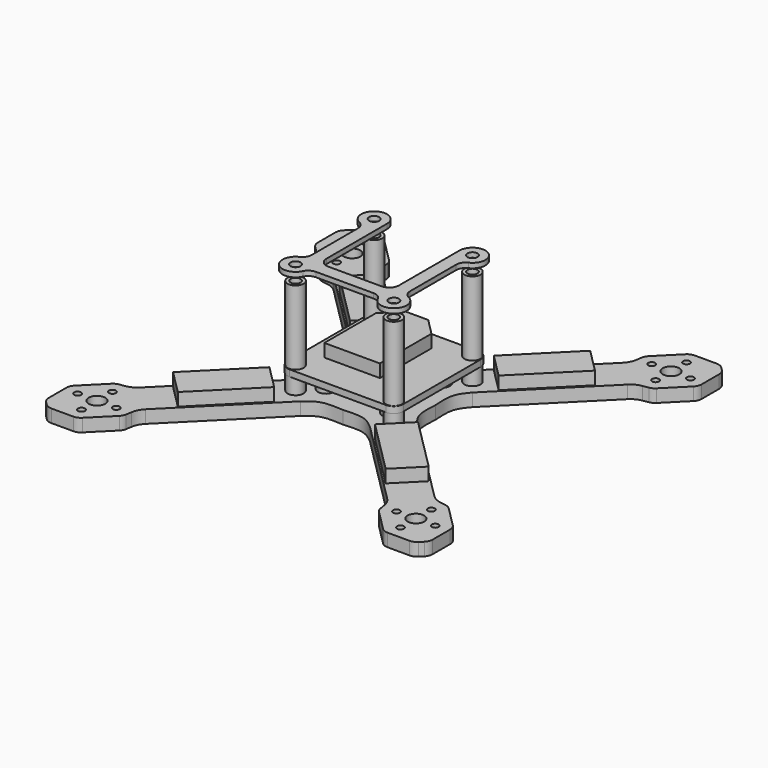
from build123d import *

# Parameters (mm, degrees)
F0_R      = 1.075
F0_R_2    = 2.575
F0_R_3    = 1.575
F2_DEPTH  = 4
F5_DEPTH  = 4
F7_R      = 1.575
F8_DEPTH  = 2
F9_R      = 1.575
F10_DEPTH = 2
F12_DEPTH = 4
F13_R     = 2.5
F13_R_2   = 1.55
F14_DEPTH = 30
F15_R     = 2.5
F15_R_2   = 1.55
F16_DEPTH = 5
F18_R     = 1.575
F19_DEPTH = 1.5


with BuildPart() as f2:
    # F0 (on Top) → F2 (new body)
    with BuildSketch(Plane.XY):
        with BuildLine():
            add(Edge.make_bspline(
                [(0, 16), (2.3510574085, 15.9325532334), (6.8692782252, 15.3643635456), (9.9648448839, 18.2602136611), (10.7801281389, 18.9118561226)],
                knots=[0, 0, 0, 0, 0.5485663606, 1, 1, 1, 1], degree=3))
            add(Edge.make_bspline(
                [(0, 16), (-2.3510574085, 15.9325532334), (-6.8692782252, 15.3643635456), (-9.9648448839, 18.2602136611), (-10.7801281389, 18.9118561226)],
                knots=[0, 0, 0, 0, 0.5485663606, 1, 1, 1, 1], degree=3))
            Line((-10.7801281389, 18.9118561226), (-37.5000927175, 45.6318207012))
            ThreePointArc((-37.5000927175, 45.6318207012), (-38.6000832127, 47.1438402043), (-39.1812178375, 48.9210471747))
            Line((-39.1812178375, 48.9210471747), (-39.4645239676, 50.6812885711))
            ThreePointArc((-39.4645239676, 50.6812885711), (-39.7550912801, 51.5698920562), (-40.3050865276, 52.3259018078))
            Line((-40.3050865276, 52.3259018078), (-46.6690475583, 58.6898628385))
            ThreePointArc((-46.6690475583, 58.6898628385), (-47.6423176048, 59.3401810925), (-48.7903679019, 59.5685424949))
            Line((-48.7903679019, 59.5685424949), (-55.5931144107, 59.5685424949))
            ThreePointArc((-55.5931144107, 59.5685424949), (-56.7411647078, 59.3401810925), (-57.7144347543, 58.6898628385))
            Line((-57.7144347543, 58.6898628385), (-58.2021487964, 58.2021487964))
            Line((-58.2021487964, 58.2021487964), (-58.6898628385, 57.7144347543))
            ThreePointArc((-58.6898628385, 57.7144347543), (-59.3401810925, 56.7411647078), (-59.5685424949, 55.5931144107))
            Line((-59.5685424949, 55.5931144107), (-59.5685424949, 48.7903679019))
            ThreePointArc((-59.5685424949, 48.7903679019), (-59.3401810925, 47.6423176048), (-58.6898628385, 46.6690475583))
            Line((-58.6898628385, 46.6690475583), (-52.3259018078, 40.3050865276))
            ThreePointArc((-52.3259018078, 40.3050865276), (-51.5698920562, 39.7550912801), (-50.6812885711, 39.4645239676))
            Line((-50.6812885711, 39.4645239676), (-48.9210471747, 39.1812178375))
            ThreePointArc((-48.9210471747, 39.1812178375), (-47.1438402043, 38.6000832127), (-45.6318207012, 37.5000927175))
            Line((-45.6318207012, 37.5000927175), (-18.9118561226, 10.7801281389))
            add(Edge.make_bspline(
                [(-16, 0), (-15.9325532334, 2.3510574085), (-15.3643635456, 6.8692782252), (-18.2602136611, 9.9648448839), (-18.9118561226, 10.7801281389)],
                knots=[0, 0, 0, 0, 0.5485663606, 1, 1, 1, 1], degree=3))
            add(Edge.make_bspline(
                [(-16, 0), (-15.9325532334, -2.3510574085), (-15.3643635456, -6.8692782252), (-18.2602136611, -9.9648448839), (-18.9118561226, -10.7801281389)],
                knots=[0, 0, 0, 0, 0.5485663606, 1, 1, 1, 1], degree=3))
            Line((-18.9118561226, -10.7801281389), (-45.6318207012, -37.5000927175))
            ThreePointArc((-45.6318207012, -37.5000927175), (-47.1438402043, -38.6000832127), (-48.9210471747, -39.1812178375))
            Line((-48.9210471747, -39.1812178375), (-50.6812885711, -39.4645239676))
            ThreePointArc((-50.6812885711, -39.4645239676), (-51.5698920562, -39.7550912801), (-52.3259018078, -40.3050865276))
            Line((-52.3259018078, -40.3050865276), (-58.6898628385, -46.6690475583))
            ThreePointArc((-58.6898628385, -46.6690475583), (-59.3401810925, -47.6423176048), (-59.5685424949, -48.7903679019))
            Line((-59.5685424949, -48.7903679019), (-59.5685424949, -55.5931144107))
            ThreePointArc((-59.5685424949, -55.5931144107), (-59.3401810925, -56.7411647078), (-58.6898628385, -57.7144347543))
            Line((-58.6898628385, -57.7144347543), (-58.2021487964, -58.2021487964))
            Line((-58.2021487964, -58.2021487964), (-57.7144347543, -58.6898628385))
            ThreePointArc((-57.7144347543, -58.6898628385), (-56.7411647078, -59.3401810925), (-55.5931144107, -59.5685424949))
            Line((-55.5931144107, -59.5685424949), (-48.7903679019, -59.5685424949))
            ThreePointArc((-48.7903679019, -59.5685424949), (-47.6423176048, -59.3401810925), (-46.6690475583, -58.6898628385))
            Line((-46.6690475583, -58.6898628385), (-40.3050865276, -52.3259018078))
            ThreePointArc((-40.3050865276, -52.3259018078), (-39.7550912801, -51.5698920562), (-39.4645239676, -50.6812885711))
            Line((-39.4645239676, -50.6812885711), (-39.1812178375, -48.9210471747))
            ThreePointArc((-39.1812178375, -48.9210471747), (-38.6000832127, -47.1438402043), (-37.5000927175, -45.6318207012))
            Line((-37.5000927175, -45.6318207012), (-10.7801281389, -18.9118561226))
            add(Edge.make_bspline(
                [(0, -16), (-2.3510574085, -15.9325532334), (-6.8692782252, -15.3643635456), (-9.9648448839, -18.2602136611), (-10.7801281389, -18.9118561226)],
                knots=[0, 0, 0, 0, 0.5485663606, 1, 1, 1, 1], degree=3))
            add(Edge.make_bspline(
                [(0, -16), (2.3510574085, -15.9325532334), (6.8692782252, -15.3643635456), (9.9648448839, -18.2602136611), (10.7801281389, -18.9118561226)],
                knots=[0, 0, 0, 0, 0.5485663606, 1, 1, 1, 1], degree=3))
            Line((10.7801281389, -18.9118561226), (37.5000927175, -45.6318207012))
            ThreePointArc((37.5000927175, -45.6318207012), (38.6000832127, -47.1438402043), (39.1812178375, -48.9210471747))
            Line((39.1812178375, -48.9210471747), (39.4645239676, -50.6812885711))
            ThreePointArc((39.4645239676, -50.6812885711), (39.7550912801, -51.5698920562), (40.3050865276, -52.3259018078))
            Line((40.3050865276, -52.3259018078), (46.6690475583, -58.6898628385))
            ThreePointArc((46.6690475583, -58.6898628385), (47.6423176048, -59.3401810925), (48.7903679019, -59.5685424949))
            Line((48.7903679019, -59.5685424949), (55.5931144107, -59.5685424949))
            ThreePointArc((55.5931144107, -59.5685424949), (56.7411647078, -59.3401810925), (57.7144347543, -58.6898628385))
            Line((57.7144347543, -58.6898628385), (58.2021487964, -58.2021487964))
            Line((58.2021487964, -58.2021487964), (58.6898628385, -57.7144347543))
            ThreePointArc((58.6898628385, -57.7144347543), (59.3401810925, -56.7411647078), (59.5685424949, -55.5931144107))
            Line((59.5685424949, -55.5931144107), (59.5685424949, -48.7903679019))
            ThreePointArc((59.5685424949, -48.7903679019), (59.3401810925, -47.6423176048), (58.6898628385, -46.6690475583))
            Line((58.6898628385, -46.6690475583), (52.3259018078, -40.3050865276))
            ThreePointArc((52.3259018078, -40.3050865276), (51.5698920562, -39.7550912801), (50.6812885711, -39.4645239676))
            Line((50.6812885711, -39.4645239676), (48.9210471747, -39.1812178375))
            ThreePointArc((48.9210471747, -39.1812178375), (47.1438402043, -38.6000832127), (45.6318207012, -37.5000927175))
            Line((45.6318207012, -37.5000927175), (18.9118561226, -10.7801281389))
            add(Edge.make_bspline(
                [(16, 0), (15.9325532334, -2.3510574085), (15.3643635456, -6.8692782252), (18.2602136611, -9.9648448839), (18.9118561226, -10.7801281389)],
                knots=[0, 0, 0, 0, 0.5485663606, 1, 1, 1, 1], degree=3))
            add(Edge.make_bspline(
                [(16, 0), (15.9325532334, 2.3510574085), (15.3643635456, 6.8692782252), (18.2602136611, 9.9648448839), (18.9118561226, 10.7801281389)],
                knots=[0, 0, 0, 0, 0.5485663606, 1, 1, 1, 1], degree=3))
            Line((18.9118561226, 10.7801281389), (45.6318207012, 37.5000927175))
            ThreePointArc((45.6318207012, 37.5000927175), (47.1438402043, 38.6000832127), (48.9210471747, 39.1812178375))
            Line((48.9210471747, 39.1812178375), (50.6812885711, 39.4645239676))
            ThreePointArc((50.6812885711, 39.4645239676), (51.5698920562, 39.7550912801), (52.3259018078, 40.3050865276))
            Line((52.3259018078, 40.3050865276), (58.6898628385, 46.6690475583))
            ThreePointArc((58.6898628385, 46.6690475583), (59.3401810925, 47.6423176048), (59.5685424949, 48.7903679019))
            Line((59.5685424949, 48.7903679019), (59.5685424949, 55.5931144107))
            ThreePointArc((59.5685424949, 55.5931144107), (59.3401810925, 56.7411647078), (58.6898628385, 57.7144347543))
            Line((58.6898628385, 57.7144347543), (58.2021487964, 58.2021487964))
            Line((58.2021487964, 58.2021487964), (57.7144347543, 58.6898628385))
            ThreePointArc((57.7144347543, 58.6898628385), (56.7411647078, 59.3401810925), (55.5931144107, 59.5685424949))
            Line((55.5931144107, 59.5685424949), (48.7903679019, 59.5685424949))
            ThreePointArc((48.7903679019, 59.5685424949), (47.6423176048, 59.3401810925), (46.6690475583, 58.6898628385))
            Line((46.6690475583, 58.6898628385), (40.3050865276, 52.3259018078))
            ThreePointArc((40.3050865276, 52.3259018078), (39.7550912801, 51.5698920562), (39.4645239676, 50.6812885711))
            Line((39.4645239676, 50.6812885711), (39.1812178375, 48.9210471747))
            ThreePointArc((39.1812178375, 48.9210471747), (38.6000832127, 47.1438402043), (37.5000927175, 45.6318207012))
            Line((37.5000927175, 45.6318207012), (10.7801281389, 18.9118561226))
        make_face()
        with Locations((-49.4974746831, -55.4974746831)):
            Circle(F0_R, mode=Mode.SUBTRACT)
        with Locations((-55.4974746831, -49.4974746831)):
            Circle(F0_R, mode=Mode.SUBTRACT)
        with Locations((-49.4974746831, -49.4974746831)):
            Circle(F0_R_2, mode=Mode.SUBTRACT)
        with Locations((-43.4974746831, -49.4974746831)):
            Circle(F0_R, mode=Mode.SUBTRACT)
        with Locations((-49.4974746831, -43.4974746831)):
            Circle(F0_R, mode=Mode.SUBTRACT)
        with Locations((-15.25, -15.25)):
            Circle(F0_R_3, mode=Mode.SUBTRACT)
        with Locations((-10, -10)):
            Circle(F0_R_3, mode=Mode.SUBTRACT)
        with Locations((43.4974746831, -49.4974746831)):
            Circle(F0_R, mode=Mode.SUBTRACT)
        with Locations((49.4974746831, -55.4974746831)):
            Circle(F0_R, mode=Mode.SUBTRACT)
        with Locations((49.4974746831, -49.4974746831)):
            Circle(F0_R_2, mode=Mode.SUBTRACT)
        with Locations((55.4974746831, -49.4974746831)):
            Circle(F0_R, mode=Mode.SUBTRACT)
        with Locations((49.4974746831, -43.4974746831)):
            Circle(F0_R, mode=Mode.SUBTRACT)
        with Locations((15.25, -15.25)):
            Circle(F0_R_3, mode=Mode.SUBTRACT)
        with Locations((10, -10)):
            Circle(F0_R_3, mode=Mode.SUBTRACT)
        with Locations((-10, 10)):
            Circle(F0_R_3, mode=Mode.SUBTRACT)
        with Locations((-15.25, 15.25)):
            Circle(F0_R_3, mode=Mode.SUBTRACT)
        with Locations((-49.4974746831, 43.4974746831)):
            Circle(F0_R, mode=Mode.SUBTRACT)
        with Locations((-55.4974746831, 49.4974746831)):
            Circle(F0_R, mode=Mode.SUBTRACT)
        with Locations((-49.4974746831, 49.4974746831)):
            Circle(F0_R_2, mode=Mode.SUBTRACT)
        with Locations((-49.4974746831, 55.4974746831)):
            Circle(F0_R, mode=Mode.SUBTRACT)
        with Locations((-43.4974746831, 49.4974746831)):
            Circle(F0_R, mode=Mode.SUBTRACT)
        with Locations((10, 10)):
            Circle(F0_R_3, mode=Mode.SUBTRACT)
        with Locations((15.25, 15.25)):
            Circle(F0_R_3, mode=Mode.SUBTRACT)
        with Locations((49.4974746831, 43.4974746831)):
            Circle(F0_R, mode=Mode.SUBTRACT)
        with Locations((43.4974746831, 49.4974746831)):
            Circle(F0_R, mode=Mode.SUBTRACT)
        with Locations((49.4974746831, 49.4974746831)):
            Circle(F0_R_2, mode=Mode.SUBTRACT)
        with Locations((55.4974746831, 49.4974746831)):
            Circle(F0_R, mode=Mode.SUBTRACT)
        with Locations((49.4974746831, 55.4974746831)):
            Circle(F0_R, mode=Mode.SUBTRACT)
    extrude(amount=-F2_DEPTH)

    # F11 (on Top) → F12 (join)
    with BuildSketch(Plane.XY):
        Polygon((-32.2538463515, 39.6784675539), (-39.6784675539, 32.2538463515), (-23.0614581961, 15.6368369936), (-15.6368369936, 23.0614581961), align=None)
        Polygon((15.6368369936, 23.0614581961), (23.0614581961, 15.6368369936), (39.6784675539, 32.2538463515), (32.2538463515, 39.6784675539), align=None)
        Polygon((39.6784675539, -32.2538463515), (23.0614581961, -15.6368369936), (15.6368369936, -23.0614581961), (32.2538463515, -39.6784675539), align=None)
        Polygon((-23.0614581961, -15.6368369936), (-39.6784675539, -32.2538463515), (-32.2538463515, -39.6784675539), (-15.6368369936, -23.0614581961), align=None)
    extrude(amount=F12_DEPTH)

    # F15 (on Top) → F16 (join)
    with BuildSketch(Plane.XY):
        with Locations((10, 10)):
            Circle(F15_R)
        with Locations((10, 10)):
            Circle(F15_R_2, mode=Mode.SUBTRACT)
        with Locations((10, -10)):
            Circle(F15_R)
        with Locations((10, -10)):
            Circle(F15_R_2, mode=Mode.SUBTRACT)
        with Locations((-10, -10)):
            Circle(F15_R)
        with Locations((-10, -10)):
            Circle(F15_R_2, mode=Mode.SUBTRACT)
        with Locations((-10, 10)):
            Circle(F15_R)
        with Locations((-10, 10)):
            Circle(F15_R_2, mode=Mode.SUBTRACT)
    extrude(amount=F16_DEPTH)


with BuildPart() as f5:
    # F4 (on offset) → F5 (new body)
    with BuildSketch(Plane.XY.offset(10)):
        Polygon((-8.6249997839, 7.6324934885), (-8.6249997839, -12.3675065115), (8.6250002161, -12.3675065115), (8.6250002161, 7.6324934885), (3.5000002161, 12.7824934885), (-3.4999997839, 12.7824934885), align=None)
    extrude(amount=F5_DEPTH)


with BuildPart() as f8:
    # F7 (on offset) → F8 (new body)
    with BuildSketch(Plane.XY.offset(5)):
        Polygon((-10.5, 13.5), (-13.5, 10.5), (-13.5, -10.5), (-10.5, -13.5), (10.5, -13.5), (13.5, -10.5), (13.5, 10.5), (10.5, 13.5), align=None)
        with Locations((-10, -10)):
            Circle(F7_R, mode=Mode.SUBTRACT)
        with Locations((10, -10)):
            Circle(F7_R, mode=Mode.SUBTRACT)
        with Locations((-10, 10)):
            Circle(F7_R, mode=Mode.SUBTRACT)
        with Locations((10, 10)):
            Circle(F7_R, mode=Mode.SUBTRACT)
    extrude(amount=F8_DEPTH)


with BuildPart() as f10:
    # F9 (on offset) → F10 (new body)
    with BuildSketch(Plane.XY.offset(5)):
        with BuildLine():
            ThreePointArc((18, 15), (17.1213203436, 17.1213203436), (15, 18))
            Line((15, 18), (-15, 18))
            ThreePointArc((-15, 18), (-17.1213203436, 17.1213203436), (-18, 15))
            Line((-18, 15), (-18, -15))
            ThreePointArc((-18, -15), (-17.1213203436, -17.1213203436), (-15, -18))
            Line((-15, -18), (15, -18))
            ThreePointArc((15, -18), (17.1213203436, -17.1213203436), (18, -15))
            Line((18, -15), (18, 15))
        make_face()
        with Locations((-15.25, -15.25)):
            Circle(F9_R, mode=Mode.SUBTRACT)
        with Locations((15.25, -15.25)):
            Circle(F9_R, mode=Mode.SUBTRACT)
        with Locations((-15.25, 15.25)):
            Circle(F9_R, mode=Mode.SUBTRACT)
        with Locations((15.25, 15.25)):
            Circle(F9_R, mode=Mode.SUBTRACT)
    extrude(amount=F10_DEPTH)


with BuildPart() as f14:
    # F13 (on Top) → F14 (new body)
    with BuildSketch(Plane.XY):
        with Locations((15.25, 15.25)):
            Circle(F13_R)
        with Locations((15.25, 15.25)):
            Circle(F13_R_2, mode=Mode.SUBTRACT)
    extrude(amount=F14_DEPTH)


with BuildPart() as f14b:
    # F13 (on Top) → F14, piece 2 (new body)
    with BuildSketch(Plane.XY):
        with Locations((15.25, -15.25)):
            Circle(F13_R)
        with Locations((15.25, -15.25)):
            Circle(F13_R_2, mode=Mode.SUBTRACT)
    extrude(amount=F14_DEPTH)


with BuildPart() as f14c:
    # F13 (on Top) → F14, piece 3 (new body)
    with BuildSketch(Plane.XY):
        with Locations((-15.25, -15.25)):
            Circle(F13_R)
        with Locations((-15.25, -15.25)):
            Circle(F13_R_2, mode=Mode.SUBTRACT)
    extrude(amount=F14_DEPTH)


with BuildPart() as f14d:
    # F13 (on Top) → F14, piece 4 (new body)
    with BuildSketch(Plane.XY):
        with Locations((-15.25, 15.25)):
            Circle(F13_R)
        with Locations((-15.25, 15.25)):
            Circle(F13_R_2, mode=Mode.SUBTRACT)
    extrude(amount=F14_DEPTH)


with BuildPart() as f19:
    # F18 (on offset) → F19 (new body)
    with BuildSketch(Plane.XY.offset(33)):
        with BuildLine():
            Line((-11.25, -8.25), (-11.25, 15.25))
            ThreePointArc((-11.25, 15.25), (-17.3880899353, 18.6306170189), (-16.9642857143, 11.6359683884))
            ThreePointArc((-16.9642857143, 11.6359683884), (-15.7145372358, 10.5290121311), (-15.25, 8.9254446797))
            Line((-15.25, 8.9254446797), (-15.25, -8.9254446797))
            ThreePointArc((-15.25, -8.9254446797), (-15.7145372358, -10.5290121311), (-16.9642857143, -11.6359683884))
            ThreePointArc((-16.9642857143, -11.6359683884), (-18.0784271247, -18.0784271247), (-11.6359683884, -16.9642857143))
            ThreePointArc((-11.6359683884, -16.9642857143), (-10.5290121311, -15.7145372358), (-8.9254446797, -15.25))
            Line((-8.9254446797, -15.25), (8.9254446797, -15.25))
            ThreePointArc((8.9254446797, -15.25), (10.5290121311, -15.7145372358), (11.6359683884, -16.9642857143))
            ThreePointArc((11.6359683884, -16.9642857143), (18.0784271247, -18.0784271247), (16.9642857143, -11.6359683884))
            ThreePointArc((16.9642857143, -11.6359683884), (15.7145372358, -10.5290121311), (15.25, -8.9254446797))
            Line((15.25, -8.9254446797), (15.25, 8.9254446797))
            ThreePointArc((15.25, 8.9254446797), (15.7145372358, 10.5290121311), (16.9642857143, 11.6359683884))
            ThreePointArc((16.9642857143, 11.6359683884), (17.3880899353, 18.6306170189), (11.25, 15.25))
            Line((11.25, 15.25), (11.25, -8.25))
            ThreePointArc((11.25, -8.25), (10.3713203436, -10.3713203436), (8.25, -11.25))
            Line((8.25, -11.25), (-8.25, -11.25))
            ThreePointArc((-8.25, -11.25), (-10.3713203436, -10.3713203436), (-11.25, -8.25))
        make_face()
        with Locations((-15.25, -15.25)):
            Circle(F18_R, mode=Mode.SUBTRACT)
        with Locations((15.25, -15.25)):
            Circle(F18_R, mode=Mode.SUBTRACT)
        with Locations((-15.25, 15.25)):
            Circle(F18_R, mode=Mode.SUBTRACT)
        with Locations((15.25, 15.25)):
            Circle(F18_R, mode=Mode.SUBTRACT)
    extrude(amount=F19_DEPTH)


solid = Compound([f2.part, f5.part, f8.part, f10.part, f14.part, f14b.part, f14c.part, f14d.part, f19.part])
